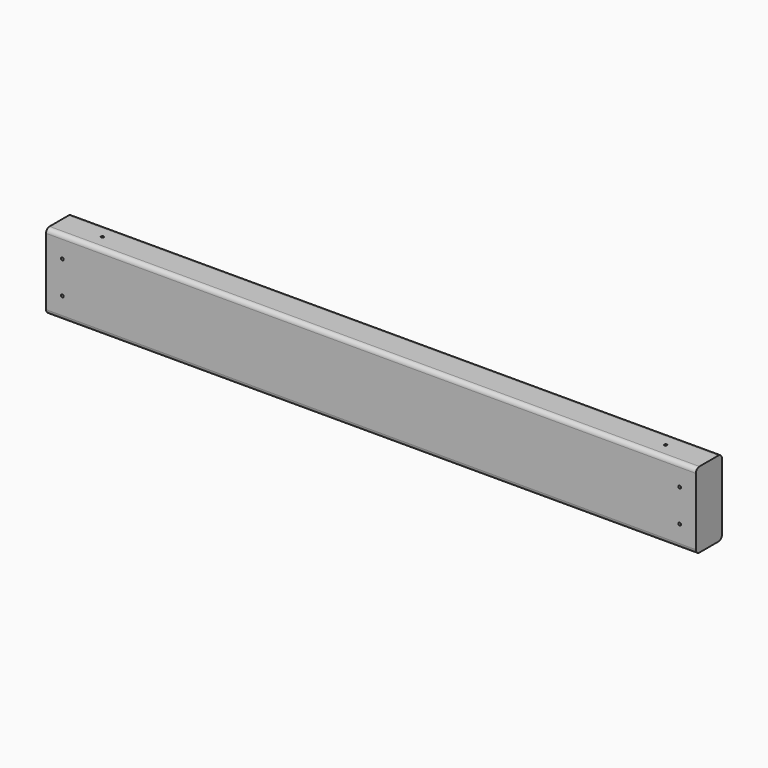
from build123d import *

# Parameters (mm, degrees)
F0_W      = 38.1
F0_H      = 88.9
F1_DEPTH  = 381
F2_R      = 5.08
F3_R      = 1.5875
F4_DEPTH  = 88.9
F5_R      = 1.5875
F6_DEPTH  = 88.9
F7_R      = 1.5875
F8_R      = 1.5875
F9_R      = 1.5875
F10_R     = 1.5875
F11_DEPTH = 38.1


with BuildPart() as f1:
    # F0 (on Right) → F1 (new body, symmetric)
    with BuildSketch(Plane.YZ):
        Rectangle(F0_W, F0_H)
    extrude(amount=F1_DEPTH, both=True)

    # F2
    f2_edges = [f1.edges().sort_by_distance(p)[0] for p in [
        (0, -19.05, 44.45),
        (0, 19.05, 44.45),
        (0, -19.05, -44.45),
        (0, 19.05, -44.45),
    ]]
    fillet(f2_edges, radius=F2_R)

    # F3 (on face) → F4 (cut, through all)
    with BuildSketch(Plane.XY.offset(44.45)):
        with Locations((330.2, 0)):
            Circle(F3_R)
    extrude(amount=-F4_DEPTH, mode=Mode.SUBTRACT)

    # F5 (on face) → F6 (cut, through all)
    with BuildSketch(Plane.XY.offset(44.45)):
        with Locations((-330.2, 0)):
            Circle(F5_R)
    extrude(amount=-F6_DEPTH, mode=Mode.SUBTRACT)

    # F7 (on face) + F8 (on face) + F9 (on face) + F10 (on face) → F11 (cut, through all)
    with BuildSketch(Plane.XZ.offset(19.05)):
        with Locations((-361.95, 19.05)):
            Circle(F7_R)
    with BuildSketch(Plane.XZ.offset(19.05)):
        with Locations((-361.95, -19.05)):
            Circle(F8_R)
    with BuildSketch(Plane.XZ.offset(19.05)):
        with Locations((361.95, 19.05)):
            Circle(F9_R)
    with BuildSketch(Plane.XZ.offset(19.05)):
        with Locations((361.95, -19.05)):
            Circle(F10_R)
    extrude(amount=-F11_DEPTH, mode=Mode.SUBTRACT)


solid = f1.part
